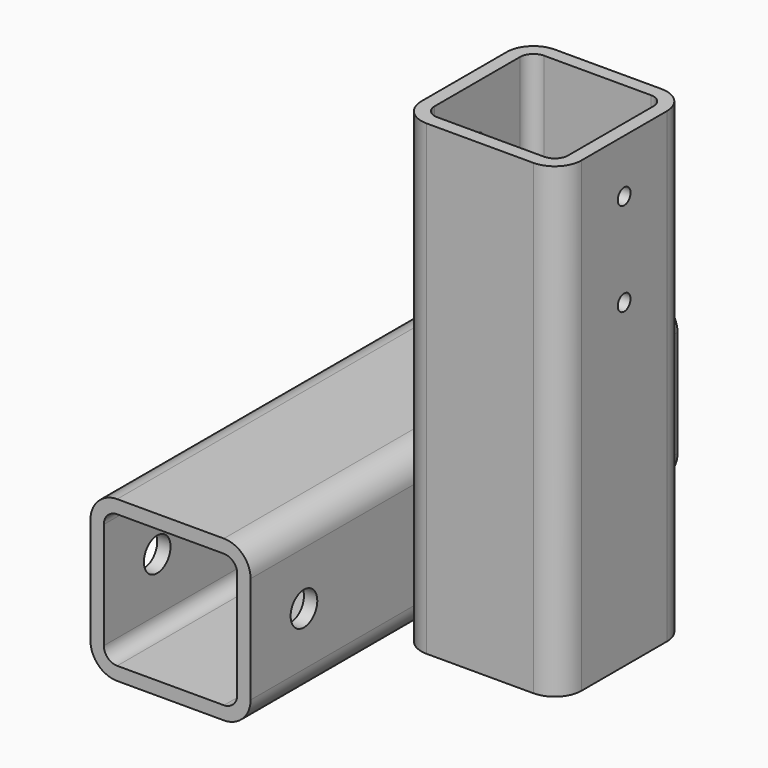
from build123d import *

# Parameters (mm, degrees)
F1_DEPTH = 87.5
F3_DEPTH = 100
F4_R     = 6.25
F5_DEPTH = 60.001
F6_R     = 3
F7_DEPTH = 120.001


with BuildPart() as f1:
    # F0 (on Top) → F1 (new body, symmetric)
    with BuildSketch(Plane.XY):
        with BuildLine():
            Line((20, 30), (-20, 30))
            ThreePointArc((-20, 30), (-27.071068, 27.071068), (-30, 20))
            Line((-30, 20), (-30, -20))
            ThreePointArc((-30, -20), (-27.071068, -27.071068), (-20, -30))
            Line((-20, -30), (20, -30))
            ThreePointArc((20, -30), (27.071068, -27.071068), (30, -20))
            Line((30, -20), (30, 20))
            ThreePointArc((30, 20), (27.071068, 27.071068), (20, 30))
        make_face()
        with BuildLine():
            ThreePointArc((-25, 20), (-23.535534, 23.535534), (-20, 25))
            Line((-20, 25), (20, 25))
            ThreePointArc((20, 25), (23.535534, 23.535534), (25, 20))
            Line((25, 20), (25, -20))
            ThreePointArc((25, -20), (23.535534, -23.535534), (20, -25))
            Line((20, -25), (-20, -25))
            ThreePointArc((-20, -25), (-23.535534, -23.535534), (-25, -20))
            Line((-25, -20), (-25, 20))
        make_face(mode=Mode.SUBTRACT)
    extrude(amount=F1_DEPTH, both=True)

    # F2 (on Front) → F3 (join, symmetric)
    with BuildSketch(Plane.XZ):
        with BuildLine():
            Line((-40, -27.5), (-80, -27.5))
            ThreePointArc((-80, -27.5), (-87.071068, -30.428932), (-90, -37.5))
            Line((-90, -37.5), (-90, -77.5))
            ThreePointArc((-90, -77.5), (-87.071068, -84.571068), (-80, -87.5))
            Line((-80, -87.5), (-40, -87.5))
            ThreePointArc((-40, -87.5), (-32.928932, -84.571068), (-30, -77.5))
            Line((-30, -77.5), (-30, -37.5))
            ThreePointArc((-30, -37.5), (-32.928932, -30.428932), (-40, -27.5))
        make_face()
        with BuildLine():
            ThreePointArc((-40, -32.5), (-36.464466, -33.964466), (-35, -37.5))
            Line((-35, -37.5), (-35, -77.5))
            ThreePointArc((-35, -77.5), (-36.464466, -81.035534), (-40, -82.5))
            Line((-40, -82.5), (-80, -82.5))
            ThreePointArc((-80, -82.5), (-83.535534, -81.035534), (-85, -77.5))
            Line((-85, -77.5), (-85, -37.5))
            ThreePointArc((-85, -37.5), (-83.535534, -33.964466), (-80, -32.5))
            Line((-80, -32.5), (-40, -32.5))
        make_face(mode=Mode.SUBTRACT)
    extrude(amount=F3_DEPTH, both=True)

    # F4 (on face) → F5 (cut, through all)
    with BuildSketch(Plane.YZ.offset(-30)):
        with Locations((-75, -57.5)):
            Circle(F4_R)
        with Locations((75, -57.5)):
            Circle(F4_R)
    extrude(amount=-F5_DEPTH, mode=Mode.SUBTRACT)

    # F6 (on face) → F7 (cut, through all)
    with BuildSketch(Plane.YZ.offset(30)):
        with Locations((0, 32.5)):
            Circle(F6_R)
        with Locations((0, 67.5)):
            Circle(F6_R)
    extrude(amount=-F7_DEPTH, mode=Mode.SUBTRACT)


solid = f1.part
